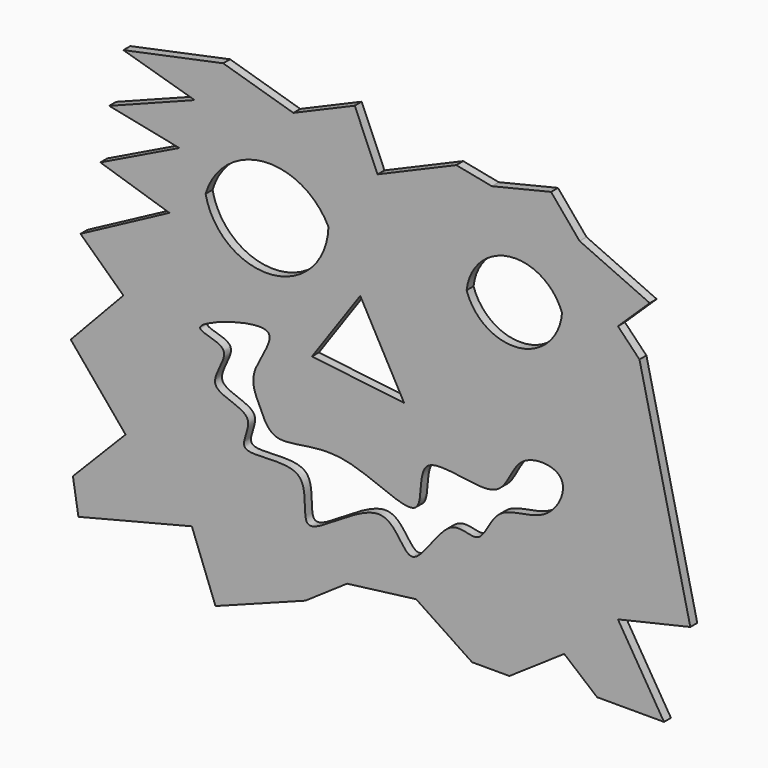
from build123d import *

# Parameters (mm, degrees)
F1_DEPTH = 2


with BuildPart() as f1:
    # F0 (on Front) → F1 (new body)
    with BuildSketch(Plane.XZ):
        Polygon((-58.9044988155, -34.8876416683), (-71.039326489, -47.2752861679), (-69.7752833366, -55.112361908), (-43.6218851764, -48.5393293202), (-38.1741598248, -62.9494413733), (-17.4438208342, -55.112361908), (-7.8370776027, -48.5393293202), (8.0898869783, -46.516854316), (20.9831446409, -55.112361908), (29.5786559582, -55.112361908), (42.2190986574, -46.516854316), (49.8033687472, -52.8370812535), (65.2247220278, -52.8370812535), (54.6067468822, -35.4763095915), (71.2921395898, -31.6011235118), (59.5683358411, 18.8780704036), (54.6067468822, 24.0168552846), (61.9382038713, 31.095508486), (45.7584299147, 38.4269692004), (39.1853973269, 46.2640486658), (25.5337078124, 42.9775305092), (17.3304902118, 44.5902781983), (-0.8238076349, 36.8098618498), (-6.0674180277, 49.0449480712), (-20.2247202396, 42.9775305092), (-36.4044941962, 47.7808974683), (-59.4101138413, 42.9775305092), (-42.9775305092, 38.1741598248), (-62.6966282725, 30.589889735), (-46.516854316, 27.3033715785), (-64.7191032767, 18.4550564736), (-48.7921349704, 13.398877345), (-69.2910023821, 2.4738167406), (-59.4101138413, -6.8258428946), (-71.54494524, -19.7191014886), align=None)
        with BuildLine():
            add(Edge.make_bspline(
                [(-41.7134836316, -7.5842700899), (-41.8381644109, -8.6275591051), (-32.208764425, -8.9208733209), (-42.6665691608, -19.8382355727), (-27.2005253581, -20.5772849841), (-35.6946749647, -31.9160746812), (-14.5261558225, -25.5988274391), (-20.9269695434, -47.0870084538), (1.6195875821, -24.8900668334), (6.6253770184, -44.5504518522), (15.2305959462, -25.7936579002), (23.2467586166, -31.9090225758), (26.1107288023, -20.3102393616), (38.7142983383, -22.2248039418), (44.8632862228, -9.1772804818), (30.1320103781, -8.4304505956), (28.8927986822, -22.8806877298), (6.733141731, -13.4344827948), (11.5833919571, -33.9081530212), (-9.4539066935, -19.6395364084), (-24.8567945997, -26.8363769051), (-28.0743569903, -18.6260709592), (-31.1730898683, -12.7336371059), (-19.3953059123, 1.3870708811), (-41.5097083507, -5.8791434989), (-41.7134836316, -7.5842700899)],
                knots=[0, 0, 0, 0, 0.0334157462, 0.0715077331, 0.1116035103, 0.1452836596, 0.1935682624, 0.2353754094, 0.2936467814, 0.3353242943, 0.3839549712, 0.4175769103, 0.4564096515, 0.5020744044, 0.543165035, 0.5838004874, 0.6274550054, 0.6810607263, 0.7230113539, 0.7804697854, 0.8336454931, 0.8679607337, 0.9038162641, 0.9453861043, 1, 1, 1, 1], degree=3))
        make_face(mode=Mode.SUBTRACT)
        Polygon((-15.9269683063, -5.0561800599), (-4.8033716157, 10.8707873151), (5.3089899011, -7.5842700899), align=None, mode=Mode.SUBTRACT)
        with BuildLine():
            ThreePointArc((-12.1348304674, 22.5000027567), (-25.1574276279, 8.5272375526), (-40.4494404793, 19.9719108641))
            ThreePointArc((-40.4494404793, 19.9719108641), (-27.1504521996, 30.8490976313), (-12.1348304674, 22.5000027567))
        make_face(mode=Mode.SUBTRACT)
        with BuildLine():
            ThreePointArc((19.7191033512, 19.9719108641), (29.7067359099, 30.019082416), (41.7134799063, 22.5000027567))
            ThreePointArc((41.7134799063, 22.5000027567), (31.754060572, 12.2073764094), (19.7191033512, 19.9719108641))
        make_face(mode=Mode.SUBTRACT)
    extrude(amount=-F1_DEPTH)


solid = f1.part
